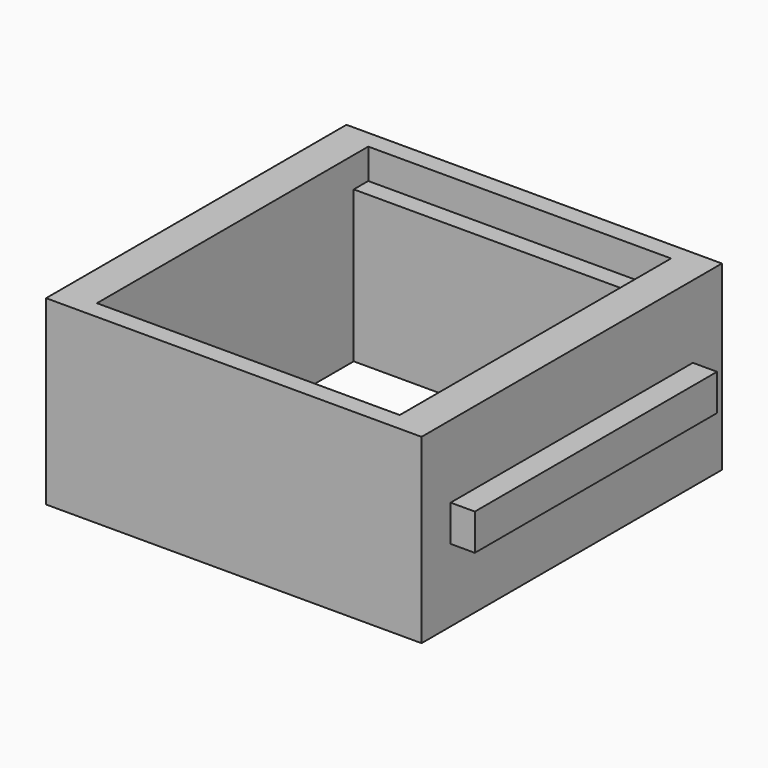
from build123d import *

# Parameters (mm, degrees)
F0_W     = 310
F0_H     = 310
F0_W_2   = 250
F0_H_2   = 250
F1_DEPTH = 75
F3_W     = 250
F3_H     = 280
F4_DEPTH = 25
F5_W     = 250
F5_H     = 30
F6_DEPTH = 20
F7_W     = 250
F7_H     = 30
F8_DEPTH = 20


with BuildPart() as f1:
    # F0 (on Top) → F1 (new body, symmetric)
    with BuildSketch(Plane.XY):
        Rectangle(F0_W, F0_H)
        Rectangle(F0_W_2, F0_H_2, mode=Mode.SUBTRACT)
    extrude(amount=F1_DEPTH, both=True)

    # F3 (on offset) → F4 (cut)
    with BuildSketch(Plane.XY.offset(75)):
        Rectangle(F3_W, F3_H)
    extrude(amount=-F4_DEPTH, mode=Mode.SUBTRACT)

    # F5 (on face) → F6 (join)
    with BuildSketch(Plane(origin=(-155, 0, 0), x_dir=(0, -1, 0), z_dir=(-1, 0, 0))):
        Rectangle(F5_W, F5_H)
    extrude(amount=F6_DEPTH)

    # F7 (on face) → F8 (join)
    with BuildSketch(Plane.YZ.offset(155)):
        Rectangle(F7_W, F7_H)
    extrude(amount=F8_DEPTH)


solid = f1.part
